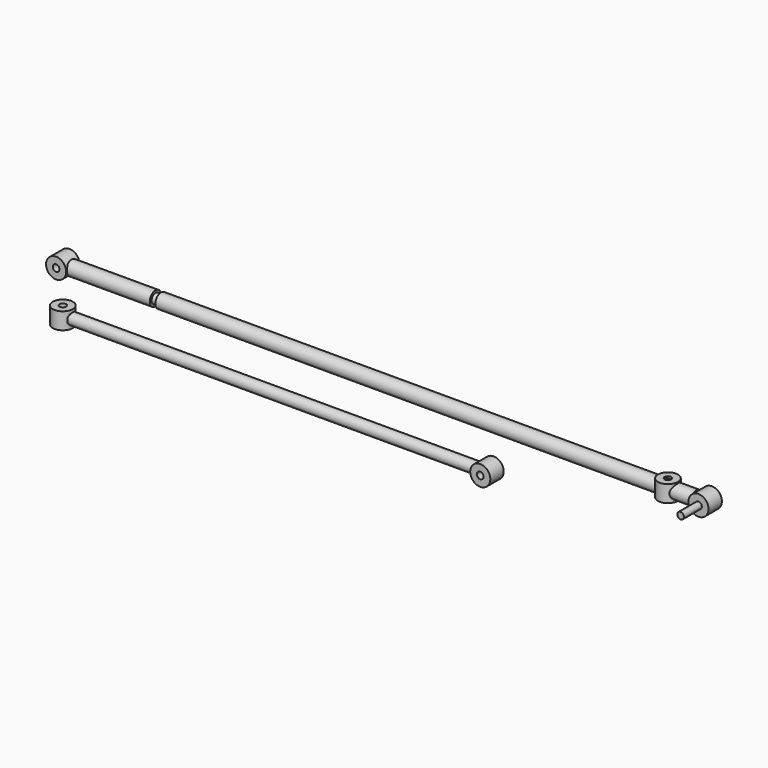
from build123d import *

# Parameters (mm, degrees)
F2_R      = 18
F2_R_2    = 6
F3_DEPTH  = 15
F4_R      = 6
F5_DEPTH  = 40
F6_W      = 728
F6_H      = 10
F8_R      = 18
F8_R_2    = 6
F9_DEPTH  = 15
F11_R     = 18
F11_R_2   = 6
F12_DEPTH = 15
F13_R     = 18
F13_R_2   = 6
F14_DEPTH = 15


with BuildPart() as f1:
    # F0 (on Front) → F1 (revolve)
    with BuildSketch(Plane.XZ):
        Polygon((16, 12.75), (16, 0), (136, 0), (136, 8.75), (146, 8.75), (166, 8.75), (166, 12.75), align=None)
        Polygon((146, 8.75), (146, 0), (156, 0), (166, 0), (1135, 0), (1135, 12.75), (176, 12.75), (176, 8.75), (166, 8.75), align=None)
    revolve(axis=Axis((575.5, 0, 0), (1, 0, 0)))

    # F2 (on Front) → F3 (join, symmetric)
    with BuildSketch(Plane.XZ):
        Circle(F2_R)
        Circle(F2_R_2, mode=Mode.SUBTRACT)
        with Locations((1151, 0)):
            Circle(F2_R)
        with Locations((1151, 0)):
            Circle(F2_R_2, mode=Mode.SUBTRACT)
    extrude(amount=F3_DEPTH, both=True)

    # F13 (on Top) → F14 (join, symmetric)
    with BuildSketch(Plane.XY):
        with Locations((1084.25, 0)):
            Circle(F13_R)
        with Locations((1084.25, 0)):
            Circle(F13_R_2, mode=Mode.SUBTRACT)
    extrude(amount=F14_DEPTH, both=True)


with BuildPart() as f5:
    # F4 (on face) → F5 (new body)
    with BuildSketch(Plane.XZ.offset(15)):
        with Locations((1151, 0)):
            Circle(F4_R)
    extrude(amount=F5_DEPTH)


with BuildPart() as f7:
    # F6 (on Front) → F7 (revolve)
    with BuildSketch(Plane.XZ):
        with Locations((380, -75)):
            Rectangle(F6_W, F6_H)
    revolve(axis=Axis((380, 0, -80), (1, 0, 0)))

    # F8 (on Front) → F9 (join, symmetric)
    with BuildSketch(Plane.XZ):
        with Locations((760, -80)):
            Circle(F8_R)
        with Locations((760, -80)):
            Circle(F8_R_2, mode=Mode.SUBTRACT)
    extrude(amount=F9_DEPTH, both=True)

    # F11 (on offset) → F12 (join, symmetric)
    with BuildSketch(Plane.XY.offset(-80)):
        Circle(F11_R)
        Circle(F11_R_2, mode=Mode.SUBTRACT)
    extrude(amount=F12_DEPTH, both=True)


solid = Compound([f1.part, f5.part, f7.part])
